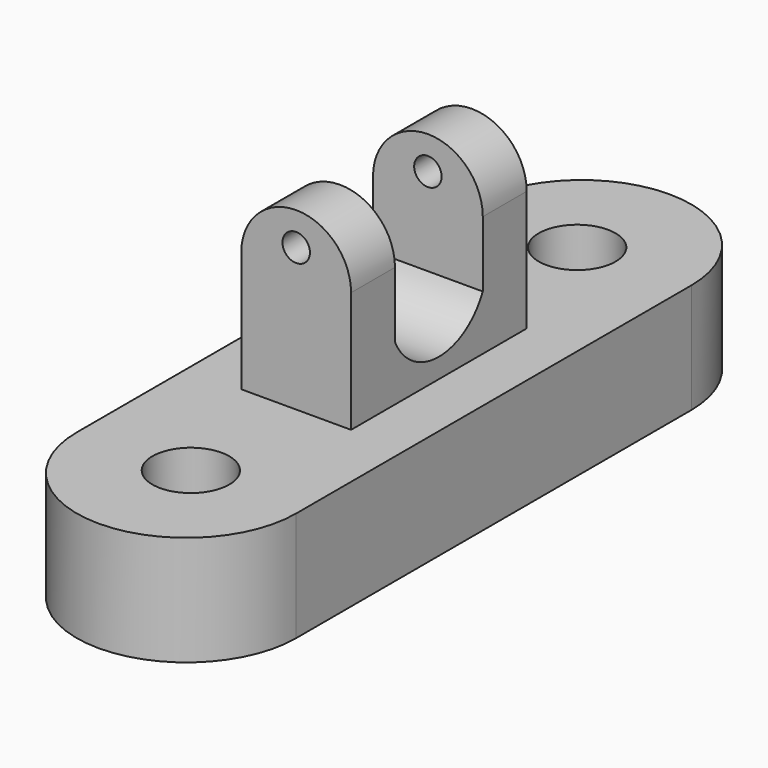
from build123d import *

# Parameters (mm, degrees)
F0_W      = 50.8
F0_H      = 114.3
F1_DEPTH  = 12.7
F2_R      = 8.89
F3_DEPTH  = 63.5
F4_W      = 25.4
F4_H      = 50.8
F5_DEPTH  = 27.94
F8_DEPTH  = 12.7
F9_DEPTH  = 12.7
F10_R     = 3.175
F11_DEPTH = 76.2
F12_W     = 25.4
F12_H     = 15.24
F13_DEPTH = 76.2


with BuildPart() as f1:
    # F0 (on Top) → F1 (new body, symmetric)
    with BuildSketch(Plane.XY):
        with BuildLine():
            Line((-25.4, 57.15), (25.4, 57.15))
            ThreePointArc((25.4, 57.15), (0, 82.55), (-25.4, 57.15))
        make_face()
        Rectangle(F0_W, F0_H)
        with BuildLine():
            ThreePointArc((-25.4, -57.15), (0, -82.55), (25.4, -57.15))
            Line((25.4, -57.15), (-25.4, -57.15))
        make_face()
    extrude(amount=F1_DEPTH, both=True)

    # F2 (on face) → F3 (cut)
    with BuildSketch(Plane.XY.offset(12.7)):
        with Locations((0, 55.88)):
            Circle(F2_R)
        with Locations((0, -55.88)):
            Circle(F2_R)
    extrude(amount=-F3_DEPTH, mode=Mode.SUBTRACT)

    # F4 (on face) → F5 (join)
    with BuildSketch(Plane.XY.offset(12.7)):
        Rectangle(F4_W, F4_H)
    extrude(amount=F5_DEPTH)

    # F7 (on face) → F8 (join)
    with BuildSketch(Plane.XZ.offset(25.4)):
        with BuildLine():
            Line((-12.7, 40.64), (12.7, 40.64))
            ThreePointArc((12.7, 40.64), (0, 53.34), (-12.7, 40.64))
        make_face()
    extrude(amount=-F8_DEPTH)

    # F6 (on face) → F9 (join)
    with BuildSketch(Plane(origin=(0, 25.4, 0), x_dir=(-1, 0, 0), z_dir=(0, 1, 0))):
        with BuildLine():
            Line((-12.7, 40.64), (12.7, 40.64))
            ThreePointArc((12.7, 40.64), (0, 53.34), (-12.7, 40.64))
        make_face()
    extrude(amount=-F9_DEPTH)

    # F10 (on face) → F11 (cut)
    with BuildSketch(Plane.XZ.offset(25.4)):
        with Locations((0, 45.72)):
            Circle(F10_R)
    extrude(amount=-F11_DEPTH, mode=Mode.SUBTRACT)

    # F12 (on face) → F13 (cut)
    with BuildSketch(Plane.YZ.offset(12.7)):
        with Locations((0, 33.02)):
            Rectangle(F12_W, F12_H)
        with BuildLine():
            ThreePointArc((-12.7, 25.4), (0, 17.249871), (12.7, 25.4))
            Line((12.7, 25.4), (-12.7, 25.4))
        make_face()
    extrude(amount=-F13_DEPTH, mode=Mode.SUBTRACT)


solid = f1.part
